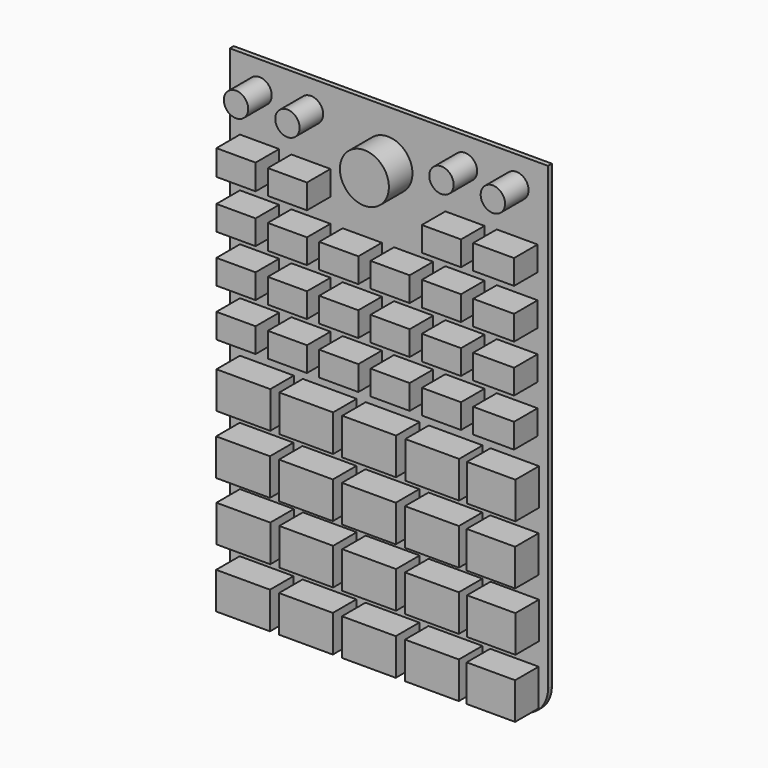
from build123d import *

# Parameters (mm, degrees)
F0_W     = 10.9982
F0_H     = 7.493
F0_R     = 2.4892
F0_R_2   = 5.0038
F0_W_2   = 8.001
F0_H_2   = 5.0038
F1_DEPTH = 0.9906
F2_DEPTH = 7


with BuildPart() as f1:
    # F0 (on Front) → F1 (new body)
    with BuildSketch(Plane.XZ):
        with BuildLine():
            Line((33.627845, 29.864025), (-31.370755, 29.864025))
            Line((-31.370755, 29.864025), (-31.370755, -64.141375))
            ThreePointArc((-31.370755, -64.141375), (-29.615036, -68.380056), (-25.376355, -70.135775))
            Line((-25.376355, -70.135775), (27.633445, -70.135775))
            ThreePointArc((27.633445, -70.135775), (31.872126, -68.380056), (33.627845, -64.141375))
            Line((33.627845, -64.141375), (33.627845, 29.864025))
        make_face()
        Polygon((-23.856579, -68.303843), (-29.355679, -68.303843), (-29.355679, -60.810843), (-18.357479, -60.810843), (-18.357479, -68.303843), align=None, mode=Mode.SUBTRACT)
        Polygon((-23.795275, -56.219801), (-29.294375, -56.219801), (-29.294375, -48.726801), (-18.296175, -48.726801), (-18.296175, -56.219801), align=None, mode=Mode.SUBTRACT)
        Polygon((-11.014633, -68.303846), (-16.513733, -68.303846), (-16.513733, -60.810846), (-5.515533, -60.810846), (-5.515533, -68.303846), align=None, mode=Mode.SUBTRACT)
        Polygon((-10.95333, -56.219804), (-16.45243, -56.219804), (-16.45243, -48.726804), (-5.45423, -48.726804), (-5.45423, -56.219804), align=None, mode=Mode.SUBTRACT)
        Polygon((-23.856579, -44.307582), (-29.355679, -44.307582), (-29.355679, -36.814582), (-18.357479, -36.814582), (-18.357479, -44.307582), align=None, mode=Mode.SUBTRACT)
        Polygon((-23.795275, -32.22354), (-29.294375, -32.22354), (-29.294375, -24.73054), (-18.296175, -24.73054), (-18.296175, -32.22354), align=None, mode=Mode.SUBTRACT)
        Polygon((-11.014633, -44.307584), (-16.513733, -44.307584), (-16.513733, -36.814584), (-5.515533, -36.814584), (-5.515533, -44.307584), align=None, mode=Mode.SUBTRACT)
        Polygon((-10.95333, -32.223543), (-16.45243, -32.223543), (-16.45243, -24.730543), (-5.45423, -24.730543), (-5.45423, -32.223543), align=None, mode=Mode.SUBTRACT)
        Polygon((1.837767, -68.303846), (-3.661333, -68.303846), (-3.661333, -60.810846), (7.336867, -60.810846), (7.336867, -68.303846), align=None, mode=Mode.SUBTRACT)
        Polygon((14.722773, -68.303846), (9.223673, -68.303846), (9.223673, -60.810846), (20.221873, -60.810846), (20.221873, -68.303846), align=None, mode=Mode.SUBTRACT)
        Polygon((1.89907, -56.219804), (-3.60003, -56.219804), (-3.60003, -48.726804), (7.39817, -48.726804), (7.39817, -56.219804), align=None, mode=Mode.SUBTRACT)
        with Locations((14.722773, -52.473304)):
            Rectangle(F0_W, F0_H, mode=Mode.SUBTRACT)
        Polygon((26.485128, -68.303846), (21.818222, -68.303846), (21.818222, -60.810846), (31.717851, -60.810846), (31.717851, -68.303846), align=None, mode=Mode.SUBTRACT)
        Polygon((26.546431, -56.219804), (21.879526, -56.219804), (21.879526, -48.726804), (31.779155, -48.726804), (31.779155, -56.219804), align=None, mode=Mode.SUBTRACT)
        Polygon((1.837767, -44.307584), (-3.661333, -44.307584), (-3.661333, -36.814584), (7.336867, -36.814584), (7.336867, -44.307584), align=None, mode=Mode.SUBTRACT)
        Polygon((14.722773, -44.307584), (9.223673, -44.307584), (9.223673, -36.814584), (20.221873, -36.814584), (20.221873, -44.307584), align=None, mode=Mode.SUBTRACT)
        Polygon((1.89907, -32.223543), (-3.60003, -32.223543), (-3.60003, -24.730543), (7.39817, -24.730543), (7.39817, -32.223543), align=None, mode=Mode.SUBTRACT)
        Polygon((14.784076, -32.223543), (9.284976, -32.223543), (9.284976, -24.730543), (20.283176, -24.730543), (20.283176, -32.223543), align=None, mode=Mode.SUBTRACT)
        Polygon((26.485128, -44.307584), (21.818222, -44.307584), (21.818222, -36.814584), (31.717851, -36.814584), (31.717851, -44.307584), align=None, mode=Mode.SUBTRACT)
        Polygon((26.546431, -32.223543), (21.879526, -32.223543), (21.879526, -24.730543), (31.779155, -24.730543), (31.779155, -32.223543), align=None, mode=Mode.SUBTRACT)
        Polygon((-26.941592, -19.399851), (-29.293516, -19.399851), (-29.293516, -14.396051), (-21.292516, -14.396051), (-21.292516, -19.399851), align=None, mode=Mode.SUBTRACT)
        Polygon((-25.281175, -9.697051), (-29.294375, -9.697051), (-29.294375, -4.693251), (-21.293375, -4.693251), (-21.293375, -9.697051), align=None, mode=Mode.SUBTRACT)
        Polygon((-25.281175, 0), (-29.294375, 0), (-29.294375, 5.0038), (-21.293375, 5.0038), (-21.293375, 0), align=None, mode=Mode.SUBTRACT)
        Polygon((-16.451392, -19.399851), (-18.803316, -19.399851), (-18.803316, -14.396051), (-10.802316, -14.396051), (-10.802316, -19.399851), align=None, mode=Mode.SUBTRACT)
        Polygon((-6.480768, -19.399851), (-8.313116, -19.399851), (-8.313116, -14.380154), (-0.312116, -14.380154), (-0.312116, -19.399851), align=None, mode=Mode.SUBTRACT)
        Polygon((-14.790975, -9.697051), (-18.804175, -9.697051), (-18.804175, -4.693251), (-10.803175, -4.693251), (-10.803175, -9.697051), align=None, mode=Mode.SUBTRACT)
        Polygon((-14.790975, 0), (-18.804175, 0), (-18.804175, 5.0038), (-10.803175, 5.0038), (-10.803175, 0), align=None, mode=Mode.SUBTRACT)
        Polygon((-4.820351, -9.697051), (-8.313975, -9.697051), (-8.313975, -4.693251), (-0.312975, -4.693251), (-0.312975, -9.697051), align=None, mode=Mode.SUBTRACT)
        Polygon((-4.820351, 0), (-8.313975, 0), (-8.313975, 5.0038), (-0.312975, 5.0038), (-0.312975, 0), align=None, mode=Mode.SUBTRACT)
        Polygon((-25.281175, 9.860025), (-29.293952, 9.860025), (-29.293952, 15.033489), (-21.293375, 15.033489), (-21.293375, 9.860025), align=None, mode=Mode.SUBTRACT)
        with Locations((-25.294477, 24.1856)):
            Circle(F0_R, mode=Mode.SUBTRACT)
        Polygon((-14.790975, 9.860024), (-18.804175, 9.860024), (-18.804175, 14.863824), (-10.803175, 14.863824), (-10.803175, 9.860024), align=None, mode=Mode.SUBTRACT)
        with Locations((-14.791187, 24.211024)):
            Circle(F0_R, mode=Mode.SUBTRACT)
        with Locations((0.931625, 19.5072)):
            Circle(F0_R_2, mode=Mode.SUBTRACT)
        with Locations((6.177584, -16.877623)):
            Rectangle(F0_W_2, F0_H_2, mode=Mode.SUBTRACT)
        Polygon((13.520521, -19.399851), (12.667284, -19.399851), (12.667284, -14.413238), (20.668284, -14.413238), (20.668284, -19.399851), align=None, mode=Mode.SUBTRACT)
        with Locations((6.176725, -7.195151)):
            Rectangle(F0_W_2, F0_H_2, mode=Mode.SUBTRACT)
        Polygon((10.177225, 0), (2.176225, 0), (2.176225, 5.0038), (10.177225, 5.0038), (10.177225, 2.5146), align=None, mode=Mode.SUBTRACT)
        Polygon((15.180938, -9.697051), (12.666425, -9.697051), (12.666425, -4.693251), (20.667425, -4.693251), (20.667425, -9.697051), align=None, mode=Mode.SUBTRACT)
        Polygon((15.180938, 0), (12.666425, 0), (12.666425, 5.0038), (20.667425, 5.0038), (20.667425, 0), align=None, mode=Mode.SUBTRACT)
        Polygon((25.509408, -19.417038), (23.157484, -19.417038), (23.157484, -14.413238), (31.494245, -14.413238), (31.494245, -19.417038), align=None, mode=Mode.SUBTRACT)
        Polygon((27.169825, -9.697051), (23.156625, -9.697051), (23.156625, -4.693251), (31.499034, -4.693251), (31.499034, -9.697051), align=None, mode=Mode.SUBTRACT)
        Polygon((27.169825, 0), (23.156625, 0), (23.156625, 5.0038), (31.499034, 5.0038), (31.499034, 0), align=None, mode=Mode.SUBTRACT)
        Polygon((15.180938, 9.860025), (12.666425, 9.860025), (12.666425, 14.863825), (20.667425, 14.863825), (20.667425, 9.860025), (16.666925, 9.860025), align=None, mode=Mode.SUBTRACT)
        with Locations((16.666925, 24.2123)):
            Circle(F0_R, mode=Mode.SUBTRACT)
        Polygon((27.169825, 10.029689), (23.156625, 10.029689), (23.156625, 15.033489), (31.499034, 15.033489), (31.499034, 10.029689), align=None, mode=Mode.SUBTRACT)
        with Locations((27.169825, 24.2123)):
            Circle(F0_R, mode=Mode.SUBTRACT)
    extrude(amount=F1_DEPTH)

    # F0 (on Front) → F2 (join)
    with BuildSketch(Plane.XZ):
        Polygon((-29.355679, -60.810843), (-29.355679, -68.303843), (-23.856579, -68.303843), (-18.357479, -68.303843), (-18.357479, -60.810843), align=None)
        Polygon((-16.513733, -60.810846), (-16.513733, -68.303846), (-11.014633, -68.303846), (-5.515533, -68.303846), (-5.515533, -60.810846), align=None)
        Polygon((-3.661333, -60.810846), (-3.661333, -68.303846), (1.837767, -68.303846), (7.336867, -68.303846), (7.336867, -60.810846), align=None)
        Polygon((9.223673, -60.810846), (9.223673, -68.303846), (14.722773, -68.303846), (20.221873, -68.303846), (20.221873, -60.810846), align=None)
        Polygon((21.818222, -60.810846), (21.818222, -68.303846), (26.485128, -68.303846), (31.717851, -68.303846), (31.717851, -60.810846), align=None)
        Polygon((21.879526, -48.726804), (21.879526, -56.219804), (26.546431, -56.219804), (31.779155, -56.219804), (31.779155, -48.726804), align=None)
        with Locations((14.722773, -52.473304)):
            Rectangle(F0_W, F0_H)
        Polygon((-3.60003, -48.726804), (-3.60003, -56.219804), (1.89907, -56.219804), (7.39817, -56.219804), (7.39817, -48.726804), align=None)
        Polygon((-16.45243, -48.726804), (-16.45243, -56.219804), (-10.95333, -56.219804), (-5.45423, -56.219804), (-5.45423, -48.726804), align=None)
        Polygon((-29.294375, -48.726801), (-29.294375, -56.219801), (-23.795275, -56.219801), (-18.296175, -56.219801), (-18.296175, -48.726801), align=None)
        Polygon((-29.355679, -36.814582), (-29.355679, -44.307582), (-23.856579, -44.307582), (-18.357479, -44.307582), (-18.357479, -36.814582), align=None)
        Polygon((-16.513733, -36.814584), (-16.513733, -44.307584), (-11.014633, -44.307584), (-5.515533, -44.307584), (-5.515533, -36.814584), align=None)
        Polygon((-3.661333, -36.814584), (-3.661333, -44.307584), (1.837767, -44.307584), (7.336867, -44.307584), (7.336867, -36.814584), align=None)
        Polygon((9.223673, -36.814584), (9.223673, -44.307584), (14.722773, -44.307584), (20.221873, -44.307584), (20.221873, -36.814584), align=None)
        Polygon((21.818222, -36.814584), (21.818222, -44.307584), (26.485128, -44.307584), (31.717851, -44.307584), (31.717851, -36.814584), align=None)
        Polygon((21.879526, -24.730543), (21.879526, -32.223543), (26.546431, -32.223543), (31.779155, -32.223543), (31.779155, -24.730543), align=None)
        Polygon((9.284976, -24.730543), (9.284976, -32.223543), (14.784076, -32.223543), (20.283176, -32.223543), (20.283176, -24.730543), align=None)
        Polygon((-3.60003, -24.730543), (-3.60003, -32.223543), (1.89907, -32.223543), (7.39817, -32.223543), (7.39817, -24.730543), align=None)
        Polygon((-16.45243, -24.730543), (-16.45243, -32.223543), (-10.95333, -32.223543), (-5.45423, -32.223543), (-5.45423, -24.730543), align=None)
        Polygon((-29.294375, -24.73054), (-29.294375, -32.22354), (-23.795275, -32.22354), (-18.296175, -32.22354), (-18.296175, -24.73054), align=None)
        Polygon((-29.293516, -14.396051), (-29.293516, -19.399851), (-26.941592, -19.399851), (-21.292516, -19.399851), (-21.292516, -14.396051), align=None)
        Polygon((-18.803316, -14.396051), (-18.803316, -19.399851), (-16.451392, -19.399851), (-10.802316, -19.399851), (-10.802316, -14.396051), align=None)
        Polygon((-8.313116, -14.380154), (-8.313116, -19.399851), (-6.480768, -19.399851), (-0.312116, -19.399851), (-0.312116, -14.380154), align=None)
        with Locations((6.177584, -16.877623)):
            Rectangle(F0_W_2, F0_H_2)
        Polygon((12.667284, -14.413238), (12.667284, -19.399851), (13.520521, -19.399851), (20.668284, -19.399851), (20.668284, -14.413238), align=None)
        Polygon((23.157484, -14.413238), (23.157484, -19.417038), (25.509408, -19.417038), (31.494245, -19.417038), (31.494245, -14.413238), align=None)
        Polygon((23.156625, -4.693251), (23.156625, -9.697051), (27.169825, -9.697051), (31.499034, -9.697051), (31.499034, -4.693251), align=None)
        Polygon((12.666425, -4.693251), (12.666425, -9.697051), (15.180938, -9.697051), (20.667425, -9.697051), (20.667425, -4.693251), align=None)
        with Locations((6.176725, -7.195151)):
            Rectangle(F0_W_2, F0_H_2)
        Polygon((-8.313975, -4.693251), (-8.313975, -9.697051), (-4.820351, -9.697051), (-0.312975, -9.697051), (-0.312975, -4.693251), align=None)
        Polygon((-18.804175, -4.693251), (-18.804175, -9.697051), (-14.790975, -9.697051), (-10.803175, -9.697051), (-10.803175, -4.693251), align=None)
        Polygon((-29.294375, -4.693251), (-29.294375, -9.697051), (-25.281175, -9.697051), (-21.293375, -9.697051), (-21.293375, -4.693251), align=None)
        Polygon((-29.294375, 5.0038), (-29.294375, 0), (-25.281175, 0), (-21.293375, 0), (-21.293375, 5.0038), align=None)
        Polygon((-18.804175, 5.0038), (-18.804175, 0), (-14.790975, 0), (-10.803175, 0), (-10.803175, 5.0038), align=None)
        Polygon((-8.313975, 5.0038), (-8.313975, 0), (-4.820351, 0), (-0.312975, 0), (-0.312975, 5.0038), align=None)
        Polygon((2.176225, 5.0038), (2.176225, 0), (10.177225, 0), (10.177225, 2.5146), (10.177225, 5.0038), align=None)
        Polygon((12.666425, 5.0038), (12.666425, 0), (15.180938, 0), (20.667425, 0), (20.667425, 5.0038), align=None)
        Polygon((23.156625, 5.0038), (23.156625, 0), (27.169825, 0), (31.499034, 0), (31.499034, 5.0038), align=None)
        Polygon((23.156625, 15.033489), (23.156625, 10.029689), (27.169825, 10.029689), (31.499034, 10.029689), (31.499034, 15.033489), align=None)
        Polygon((12.666425, 14.863825), (12.666425, 9.860025), (15.180938, 9.860025), (16.666925, 9.860025), (20.667425, 9.860025), (20.667425, 14.863825), align=None)
        with Locations((27.169825, 24.2123)):
            Circle(F0_R)
        with Locations((16.666925, 24.2123)):
            Circle(F0_R)
        Polygon((-18.804175, 14.863824), (-18.804175, 9.860024), (-14.790975, 9.860024), (-10.803175, 9.860024), (-10.803175, 14.863824), align=None)
        Polygon((-29.293952, 15.033489), (-29.293952, 9.860025), (-25.281175, 9.860025), (-21.293375, 9.860025), (-21.293375, 15.033489), align=None)
        with Locations((-25.294477, 24.1856)):
            Circle(F0_R)
        with Locations((-14.791187, 24.211024)):
            Circle(F0_R)
        with Locations((0.931625, 19.5072)):
            Circle(F0_R_2)
    extrude(amount=F2_DEPTH)


solid = f1.part
